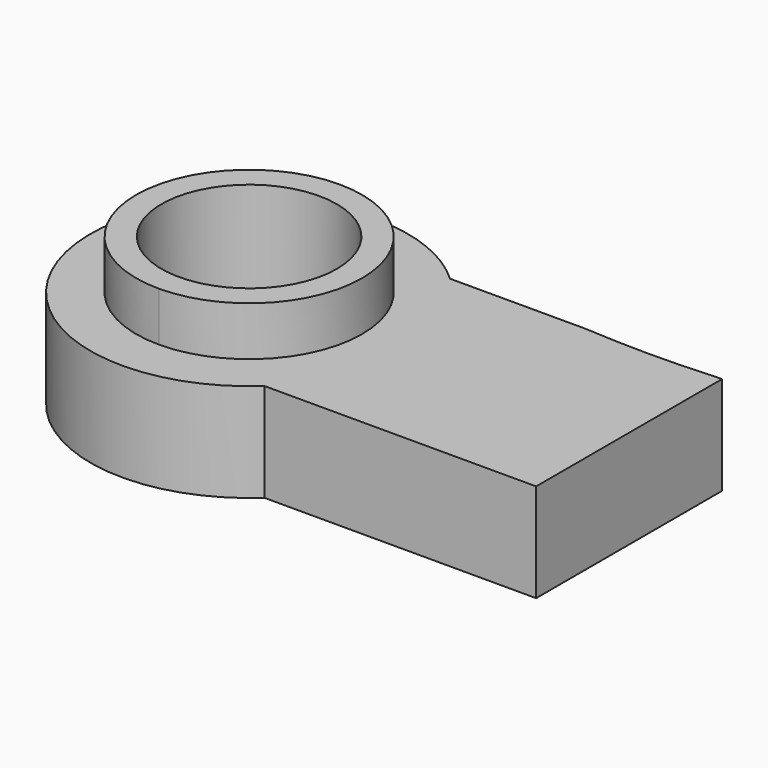
from build123d import *

# Parameters (mm, degrees)
F1_DEPTH = 25.4
F2_DEPTH = 38.1


with BuildPart() as f1:
    # F0 (on Top) → F1 (new body)
    with BuildSketch(Plane.XY):
        with BuildLine():
            Line((49.0129638637, 29.9626197666), (46.774469316, 29.9626197666))
            ThreePointArc((46.774469316, 29.9626197666), (30.3001427561, 29.390654175), (13.8258161962, 29.9626197666))
            Line((13.8258161962, 29.9626197666), (-21.1371275652, 29.9626197666))
            ThreePointArc((-21.1371275652, 29.9626197666), (-11.4921190987, 16.3403500801), (-8.0883889408, 0))
            ThreePointArc((-8.0883889408, 0), (-11.4921190987, -16.3403500801), (-21.1371275652, -29.9626197666))
            Line((-21.1371275652, -29.9626197666), (49.0129638637, -29.9626197666))
            Line((49.0129638637, -29.9626197666), (49.0129638637, 29.9626197666))
        make_face()
        with BuildLine():
            Line((-49.0129638637, 29.9626197666), (-21.1371275652, 29.9626197666))
            ThreePointArc((-21.1371275652, 29.9626197666), (-28.7111277901, 35.5338751709), (-37.3567476866, 39.2294972827))
            ThreePointArc((-37.3567476866, 39.2294972827), (-88.8574497894, -9.3401163775), (-21.1371275652, -29.9626197666))
            Line((-21.1371275652, -29.9626197666), (-49.0129638637, -29.9626197666))
            Line((-49.0129638637, -29.9626197666), (-49.0129638637, -29.141463528))
            ThreePointArc((-49.0129638637, -29.141463528), (-78.1544273918, 0), (-49.0129638637, 29.141463528))
            Line((-49.0129638637, 29.141463528), (-49.0129638637, 29.9626197666))
        make_face()
        with BuildLine():
            ThreePointArc((-8.0883889408, 0), (-11.4921190987, 16.3403500801), (-21.1371275652, 29.9626197666))
            Line((-21.1371275652, 29.9626197666), (-49.0129638637, 29.9626197666))
            Line((-49.0129638637, 29.9626197666), (-49.0129638637, 29.141463528))
            ThreePointArc((-49.0129638637, 29.141463528), (-28.4068373894, 20.6061264744), (-19.8715003357, 0))
            ThreePointArc((-19.8715003357, 0), (-28.4068373894, -20.6061264744), (-49.0129638637, -29.141463528))
            Line((-49.0129638637, -29.141463528), (-49.0129638637, -29.9626197666))
            Line((-49.0129638637, -29.9626197666), (-21.1371275652, -29.9626197666))
            ThreePointArc((-21.1371275652, -29.9626197666), (-11.4921190987, -16.3403500801), (-8.0883889408, 0))
        make_face()
    extrude(amount=F1_DEPTH)

    # F0 (on Top) → F2 (join)
    with BuildSketch(Plane.XY):
        with BuildLine():
            ThreePointArc((-19.8715003357, 0), (-28.4068373894, 20.6061264744), (-49.0129638637, 29.141463528))
            Line((-49.0129638637, 29.141463528), (-49.0129638637, 22.6363457986))
            ThreePointArc((-49.0129638637, 22.6363457986), (-33.0066502483, 16.0063136155), (-26.3766180651, 0))
            ThreePointArc((-26.3766180651, 0), (-33.0066502483, -16.0063136155), (-49.0129638637, -22.6363457986))
            Line((-49.0129638637, -22.6363457986), (-49.0129638637, -29.141463528))
            ThreePointArc((-49.0129638637, -29.141463528), (-28.4068373894, -20.6061264744), (-19.8715003357, 0))
        make_face()
        with BuildLine():
            Line((-49.0129638637, 22.6363457986), (-49.0129638637, 29.141463528))
            ThreePointArc((-49.0129638637, 29.141463528), (-78.1544273918, 0), (-49.0129638637, -29.141463528))
            Line((-49.0129638637, -29.141463528), (-49.0129638637, -22.6363457986))
            ThreePointArc((-49.0129638637, -22.6363457986), (-71.6493096624, 0), (-49.0129638637, 22.6363457986))
        make_face()
    extrude(amount=F2_DEPTH)


solid = f1.part
